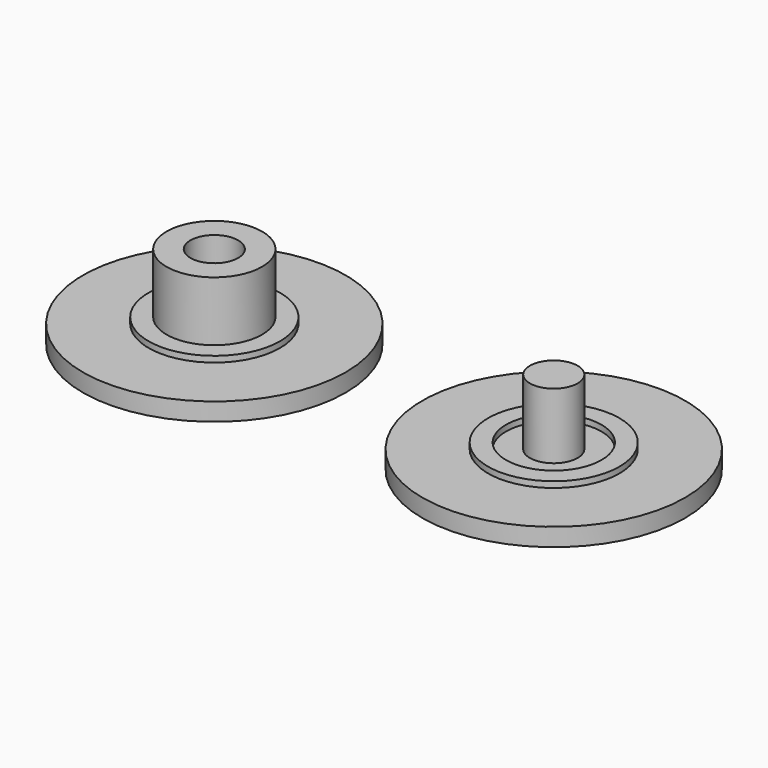
from build123d import *

# Parameters (mm, degrees)
F0_R     = 11
F0_R_2   = 5.5
F1_DEPTH = 1.5
F0_R_3   = 4
F2_DEPTH = 2
F0_R_4   = 2
F3_DEPTH = 7
F4_DEPTH = 1.5
F5_DEPTH = 1.5


with BuildPart() as f1:
    # F0 (on Top) → F1 (new body)
    with BuildSketch(Plane.XY):
        Circle(F0_R)
        Circle(F0_R_2, mode=Mode.SUBTRACT)
    extrude(amount=F1_DEPTH)

    # F0 (on Top) → F2 (join)
    with BuildSketch(Plane.XY):
        Circle(F0_R_2)
        Circle(F0_R_3, mode=Mode.SUBTRACT)
    extrude(amount=F2_DEPTH)



with BuildPart() as f1b:
    # F0 (on Top) → F1, piece 2 (new body)
    with BuildSketch(Plane.XY):
        with Locations((-28.4153819084, 0)):
            Circle(F0_R)
        with Locations((-28.4153819084, 0)):
            Circle(F0_R_2, mode=Mode.SUBTRACT)
    extrude(amount=F1_DEPTH)

    # F0 (on Top) → F2, piece 2 (join)
    with BuildSketch(Plane.XY):
        with Locations((-28.4153819084, 0)):
            Circle(F0_R_2)
        with Locations((-28.4153819084, 0)):
            Circle(F0_R_3, mode=Mode.SUBTRACT)
    extrude(amount=F2_DEPTH)

    # F0 (on Top) → F3 (join)
    with BuildSketch(Plane.XY):
        with Locations((-28.4153819084, 0)):
            Circle(F0_R_3)
        with Locations((-28.4153819084, 0)):
            Circle(F0_R_4, mode=Mode.SUBTRACT)
    extrude(amount=F3_DEPTH)

    # F0 (on Top) → F5 (join)
    with BuildSketch(Plane.XY):
        with Locations((-28.4153819084, 0)):
            Circle(F0_R_4)
    extrude(amount=F5_DEPTH)


with BuildPart() as f3:
    # F0 (on Top) → F3, piece 2 (new body)
    with BuildSketch(Plane.XY):
        Circle(F0_R_4)
    extrude(amount=F3_DEPTH)


with BuildPart() as f1_1:
    add(f1.part)

    add(f3.part)  # F4 merges F3
    # F0 (on Top) → F4 (join)
    with BuildSketch(Plane.XY):
        Circle(F0_R_3)
        Circle(F0_R_4, mode=Mode.SUBTRACT)
    extrude(amount=F4_DEPTH)


solid = Compound([f1b.part, f1_1.part])
